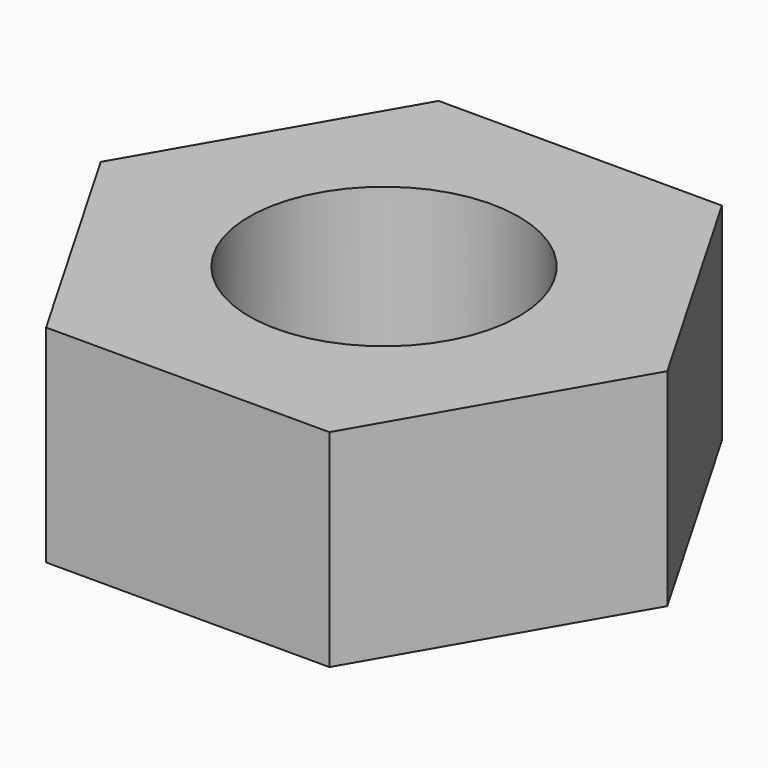
from build123d import *

# Parameters (mm, degrees)
SKETCH_R  = 1.5
PAD_DEPTH = 2.3


with BuildPart() as part:
    # Sketch → Pad (new body)
    with BuildSketch(Plane.XY):
        Polygon((1.575, -2.72798), (3.15, 0), (1.575, 2.72798), (-1.575, 2.72798), (-3.15, 0), (-1.575, -2.72798), align=None)
        Circle(SKETCH_R, mode=Mode.SUBTRACT)
    extrude(amount=PAD_DEPTH)


solid = part.part
